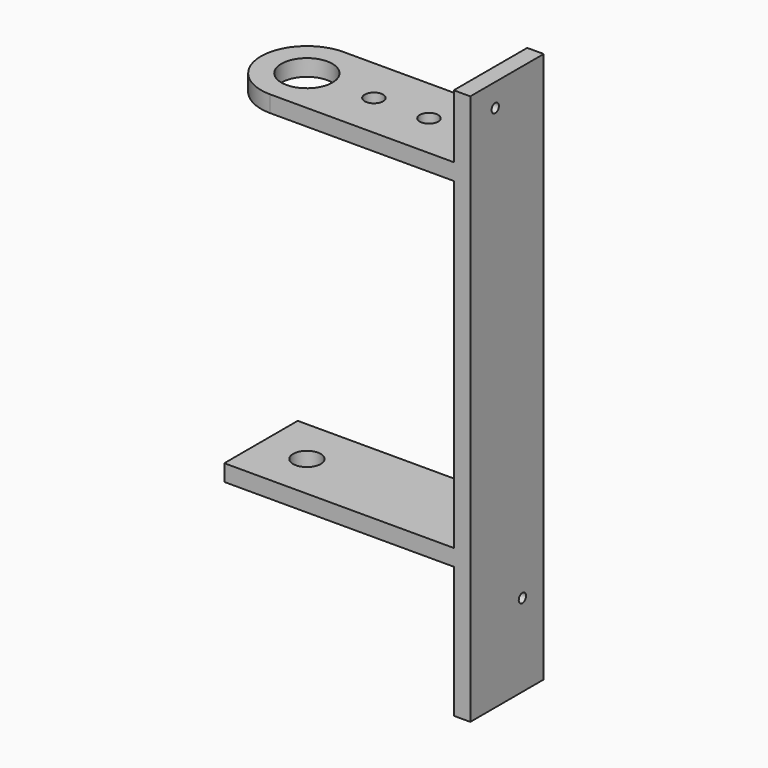
from build123d import *

# Parameters (mm, degrees)
SKETCH_R        = 2.78
SKETCH_R_2      = 1
PAD_DEPTH       = 1.8
SKETCH001_W     = 10
SKETCH001_H     = 60
PAD001_DEPTH    = 1.8
SKETCH002_W     = 10
SKETCH002_H     = 1.8
PAD002_DEPTH    = 25
SKETCH003_R     = 1.5
POCKET_DEPTH    = 45.701
SKETCH004_R     = 0.5
POCKET001_DEPTH = 26.801


with BuildPart() as part:
    # Sketch → Pad (new body)
    with BuildSketch(Plane.XY):
        with BuildLine():
            ThreePointArc((0, 5), (-5, 0), (0, -5))
            Line((0, -5), (20, -5))
            Line((20, 5), (20, -5))
            Line((0, 5), (20, 5))
        make_face()
        Circle(SKETCH_R, mode=Mode.SUBTRACT)
        with Locations((7.3, 0)):
            Circle(SKETCH_R_2, mode=Mode.SUBTRACT)
        with Locations((13.3, 0)):
            Circle(SKETCH_R_2, mode=Mode.SUBTRACT)
    extrude(amount=PAD_DEPTH)

    # Sketch001 → Pad001 (new body)
    with BuildSketch(Plane.YZ.offset(20)):
        with Locations((0, -21.3)):
            Rectangle(SKETCH001_W, SKETCH001_H)
    extrude(amount=PAD001_DEPTH)

    # Sketch002 → Pad002 (new body)
    with BuildSketch(Plane(origin=(20, 0, 0), x_dir=(0, -1, 0), z_dir=(-1, 0, 0))):
        with Locations((0, -36.1)):
            Rectangle(SKETCH002_W, SKETCH002_H)
    extrude(amount=PAD002_DEPTH)

    # Sketch003 → Pocket (cut, through all)
    with BuildSketch(Plane(origin=(0, 0, -37), x_dir=(1, 0, 0), z_dir=(0, 0, -1))):
        Circle(SKETCH003_R)
    extrude(amount=-POCKET_DEPTH, mode=Mode.SUBTRACT)

    # Sketch004 → Pocket001 (cut, through all)
    with BuildSketch(Plane.YZ.offset(21.8)):
        with Locations((2.1, -42.3)):
            Circle(SKETCH004_R)
        with Locations((-1.6, 6.2)):
            Circle(SKETCH004_R)
    extrude(amount=-POCKET001_DEPTH, mode=Mode.SUBTRACT)


solid = part.part
